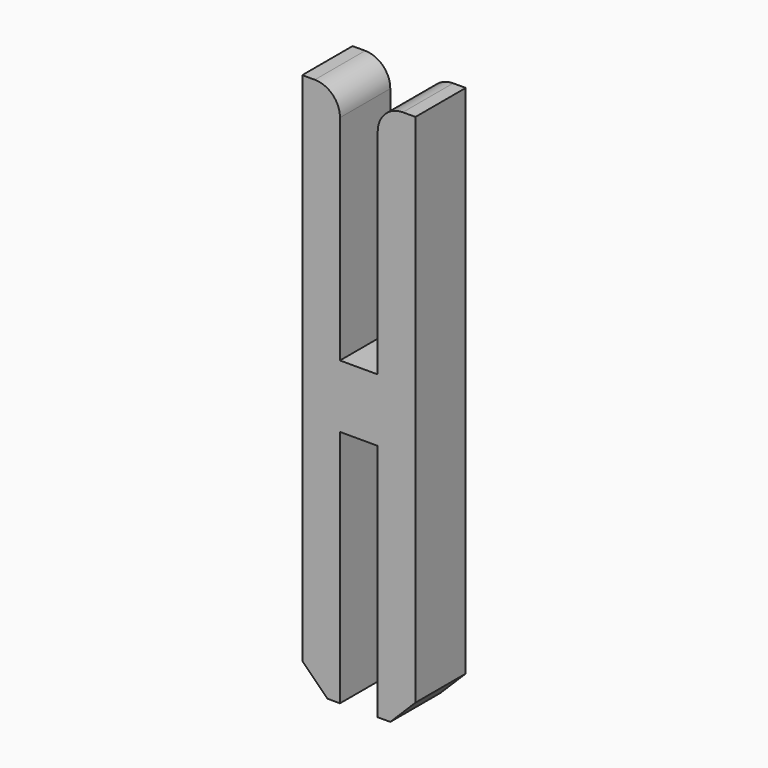
from build123d import *

# Parameters (mm, degrees)
F1_DEPTH = 6.35
F2_R     = 5.08
F3_SIZE  = 5.08


with BuildPart() as f1:
    # F0 (on Front) → F1 (new body, symmetric)
    with BuildSketch(Plane.XZ):
        Polygon((11.43, -54.61), (11.43, 54.61), (3.81, 54.61), (3.81, 6.35), (-3.81, 6.35), (-3.81, 54.61), (-11.43, 54.61), (-11.43, -54.61), (-3.81, -54.61), (-3.81, -6.35), (3.81, -6.35), (3.81, -54.61), align=None)
    extrude(amount=F1_DEPTH, both=True)

    # F2
    f2_edges = [f1.edges().sort_by_distance(p)[0] for p in [
        (-3.81, 0, 54.61),
        (3.81, 0, 54.61),
    ]]
    fillet(f2_edges, radius=F2_R)

    # F3
    f3_edges = [f1.edges().sort_by_distance(p)[0] for p in [
        (-11.43, 0, -54.61),
        (11.43, 0, -54.61),
    ]]
    chamfer(f3_edges, length=F3_SIZE)


solid = f1.part
